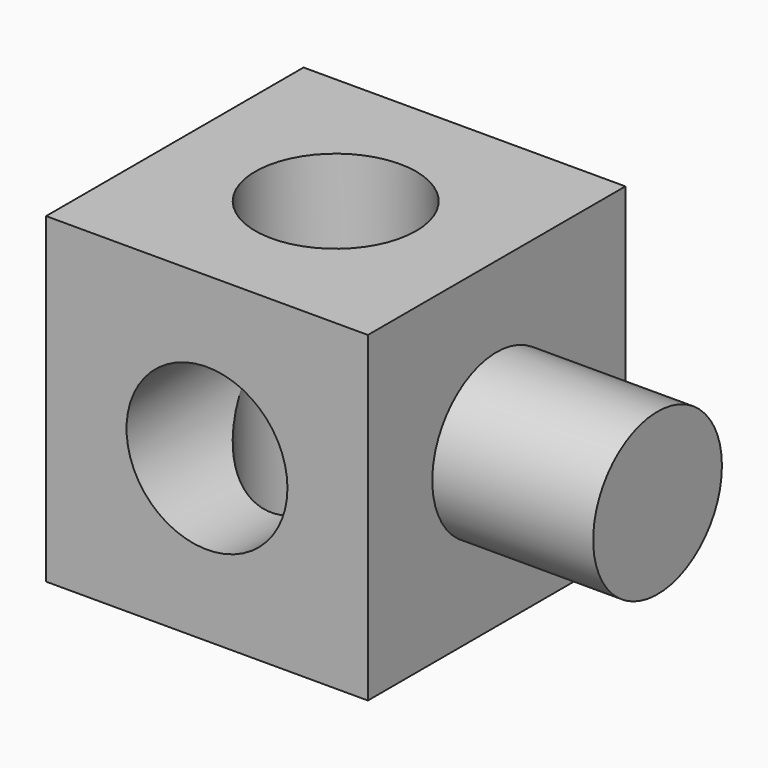
from build123d import *

# Parameters (mm, degrees)
F0_W     = 50.8
F0_H     = 50.8
F0_R     = 12.7
F1_DEPTH = 25.4
F2_R     = 12.7
F3_DEPTH = 50.801
F4_R     = 12.7
F5_DEPTH = 25.4


with BuildPart() as f1:
    # F0 (on Front) → F1 (new body, symmetric)
    with BuildSketch(Plane.XZ):
        Rectangle(F0_W, F0_H)
        Circle(F0_R, mode=Mode.SUBTRACT)
    extrude(amount=F1_DEPTH, both=True)

    # F2 (on face) → F3 (cut, through all)
    with BuildSketch(Plane.XY.offset(25.4)):
        Circle(F2_R)
    extrude(amount=-F3_DEPTH, mode=Mode.SUBTRACT)

    # F4 (on face) → F5 (join)
    with BuildSketch(Plane.YZ.offset(25.4)):
        Circle(F4_R)
    extrude(amount=F5_DEPTH)


solid = f1.part
